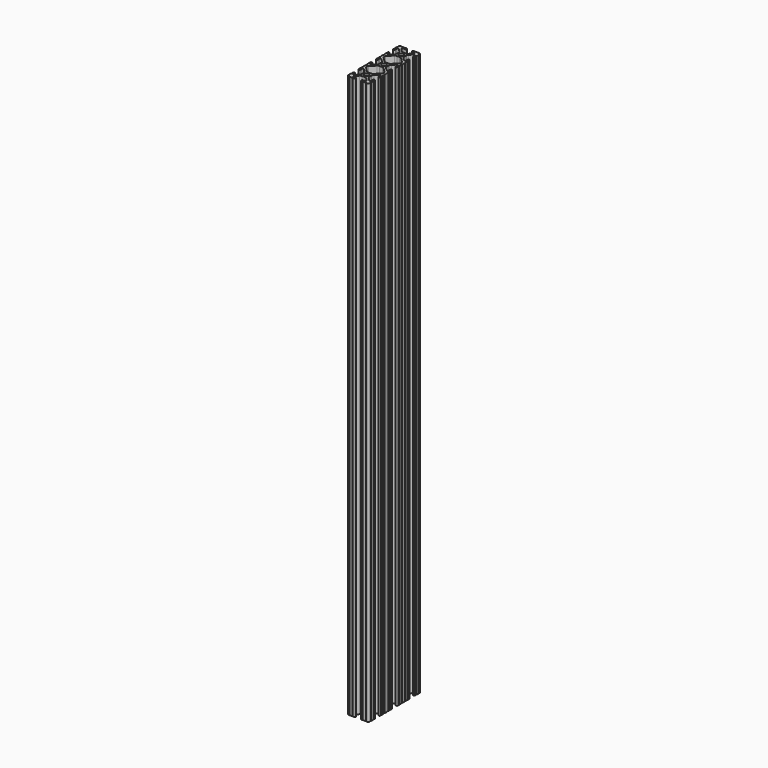
from build123d import *

# Parameters (mm, degrees)
F0_R     = 2.6035
F1_DEPTH = 656


with BuildPart() as f1:
    # F0 (on Top) → F1 (new body)
    with BuildSketch(Plane.XY):
        with BuildLine():
            Line((15.088706, -12.369562), (11.862906, -12.369562))
            ThreePointArc((11.862906, -12.369562), (11.354906, -12.877562), (10.846906, -12.369562))
            ThreePointArc((10.846906, -12.369562), (9.330628, -12.986885), (8.713306, -14.503162))
            ThreePointArc((8.713306, -14.503162), (9.221306, -15.011162), (8.713306, -15.519162))
            Line((8.713306, -15.519162), (8.713306, -18.744962))
            ThreePointArc((8.713306, -18.744962), (9.221306, -19.252962), (8.713306, -19.760962))
            Line((8.713306, -19.760962), (8.713306, -20.767255))
            ThreePointArc((8.713306, -20.767255), (9.818206, -21.872155), (10.923106, -20.767255))
            Line((10.923106, -20.767255), (10.923106, -18.594768))
            ThreePointArc((10.923106, -18.594768), (11.550299, -17.656106), (12.657526, -17.876347))
            Line((12.657526, -17.876347), (15.97487, -21.193691))
            ThreePointArc((15.97487, -21.193691), (16.663123, -22.223735), (16.904806, -23.438755))
            Line((16.904806, -23.438755), (16.904806, -26.70037))
            ThreePointArc((16.904806, -26.70037), (16.663123, -27.91539), (15.97487, -28.945434))
            Line((15.97487, -28.945434), (12.657526, -32.262777))
            ThreePointArc((12.657526, -32.262777), (11.550299, -32.483018), (10.923106, -31.544357))
            Line((10.923106, -31.544357), (10.923106, -29.37187))
            ThreePointArc((10.923106, -29.37187), (9.818206, -28.26697), (8.713306, -29.37187))
            Line((8.713306, -29.37187), (8.713306, -30.378162))
            ThreePointArc((8.713306, -30.378162), (9.221306, -30.886162), (8.713306, -31.394162))
            Line((8.713306, -31.394162), (8.713306, -34.619962))
            ThreePointArc((8.713306, -34.619962), (9.221306, -35.127962), (8.713306, -35.635962))
            Line((8.713306, -35.635962), (8.713306, -39.903162))
            ThreePointArc((8.713306, -39.903162), (9.221306, -40.411162), (8.713306, -40.919162))
            Line((8.713306, -40.919162), (8.713306, -44.144962))
            ThreePointArc((8.713306, -44.144962), (9.221306, -44.652962), (8.713306, -45.160962))
            Line((8.713306, -45.160962), (8.713306, -46.167255))
            ThreePointArc((8.713306, -46.167255), (9.818206, -47.272155), (10.923106, -46.167255))
            Line((10.923106, -46.167255), (10.923106, -43.994768))
            ThreePointArc((10.923106, -43.994768), (11.550299, -43.056106), (12.657526, -43.276347))
            Line((12.657526, -43.276347), (15.97487, -46.593691))
            ThreePointArc((15.97487, -46.593691), (16.663123, -47.623735), (16.904806, -48.838755))
            Line((16.904806, -48.838755), (16.904806, -52.10037))
            ThreePointArc((16.904806, -52.10037), (16.663123, -53.31539), (15.97487, -54.345434))
            Line((15.97487, -54.345434), (12.657526, -57.662777))
            ThreePointArc((12.657526, -57.662777), (11.550299, -57.883018), (10.923106, -56.944357))
            Line((10.923106, -56.944357), (10.923106, -54.77187))
            ThreePointArc((10.923106, -54.77187), (9.818206, -53.66697), (8.713306, -54.77187))
            Line((8.713306, -54.77187), (8.713306, -55.778162))
            ThreePointArc((8.713306, -55.778162), (9.221306, -56.286162), (8.713306, -56.794162))
            Line((8.713306, -56.794162), (8.713306, -60.019962))
            ThreePointArc((8.713306, -60.019962), (9.221306, -60.527962), (8.713306, -61.035962))
            Line((8.713306, -61.035962), (8.713306, -65.303162))
            ThreePointArc((8.713306, -65.303162), (9.221306, -65.811162), (8.713306, -66.319162))
            Line((8.713306, -66.319162), (8.713306, -69.544962))
            ThreePointArc((8.713306, -69.544962), (9.221306, -70.052962), (8.713306, -70.560962))
            Line((8.713306, -70.560962), (8.713306, -71.567255))
            ThreePointArc((8.713306, -71.567255), (9.818206, -72.672155), (10.923106, -71.567255))
            Line((10.923106, -71.567255), (10.923106, -69.394768))
            ThreePointArc((10.923106, -69.394768), (11.550299, -68.456106), (12.657526, -68.676347))
            Line((12.657526, -68.676347), (15.97487, -71.993691))
            ThreePointArc((15.97487, -71.993691), (16.663123, -73.023735), (16.904806, -74.238755))
            Line((16.904806, -74.238755), (16.904806, -77.50037))
            ThreePointArc((16.904806, -77.50037), (16.663123, -78.71539), (15.97487, -79.745434))
            Line((15.97487, -79.745434), (12.657526, -83.062777))
            ThreePointArc((12.657526, -83.062777), (11.550299, -83.283018), (10.923106, -82.344357))
            Line((10.923106, -82.344357), (10.923106, -80.17187))
            ThreePointArc((10.923106, -80.17187), (9.818206, -79.06697), (8.713306, -80.17187))
            Line((8.713306, -80.17187), (8.713306, -81.178162))
            ThreePointArc((8.713306, -81.178162), (9.221306, -81.686162), (8.713306, -82.194162))
            Line((8.713306, -82.194162), (8.713306, -85.419962))
            ThreePointArc((8.713306, -85.419962), (9.221306, -85.927962), (8.713306, -86.435962))
            ThreePointArc((8.713306, -86.435962), (9.330628, -87.95224), (10.846906, -88.569562))
            ThreePointArc((10.846906, -88.569562), (11.354906, -88.061562), (11.862906, -88.569562))
            Line((11.862906, -88.569562), (15.088706, -88.569562))
            ThreePointArc((15.088706, -88.569562), (15.596706, -88.061562), (16.104706, -88.569562))
            Line((16.104706, -88.569562), (17.110998, -88.569562))
            ThreePointArc((17.110998, -88.569562), (18.215898, -87.464662), (17.110998, -86.359762))
            Line((17.110998, -86.359762), (14.938511, -86.359762))
            ThreePointArc((14.938511, -86.359762), (13.99985, -85.732569), (14.220091, -84.625342))
            Line((14.220091, -84.625342), (17.537434, -81.307998))
            ThreePointArc((17.537434, -81.307998), (18.567479, -80.619745), (19.782498, -80.378062))
            Line((19.782498, -80.378062), (23.044113, -80.378062))
            ThreePointArc((23.044113, -80.378062), (24.259133, -80.619745), (25.289177, -81.307998))
            Line((25.289177, -81.307998), (28.606521, -84.625342))
            ThreePointArc((28.606521, -84.625342), (28.826762, -85.732569), (27.8881, -86.359762))
            Line((27.8881, -86.359762), (25.715614, -86.359762))
            ThreePointArc((25.715614, -86.359762), (24.610714, -87.464662), (25.715614, -88.569562))
            Line((25.715614, -88.569562), (26.721906, -88.569562))
            ThreePointArc((26.721906, -88.569562), (27.229906, -88.061562), (27.737906, -88.569562))
            Line((27.737906, -88.569562), (30.963706, -88.569562))
            ThreePointArc((30.963706, -88.569562), (31.471706, -88.061562), (31.979706, -88.569562))
            ThreePointArc((31.979706, -88.569562), (33.495983, -87.95224), (34.113306, -86.435962))
            ThreePointArc((34.113306, -86.435962), (33.605306, -85.927962), (34.113306, -85.419962))
            Line((34.113306, -85.419962), (34.113306, -82.194162))
            ThreePointArc((34.113306, -82.194162), (33.605306, -81.686162), (34.113306, -81.178162))
            Line((34.113306, -81.178162), (34.113306, -80.17187))
            ThreePointArc((34.113306, -80.17187), (33.008406, -79.06697), (31.903506, -80.17187))
            Line((31.903506, -80.17187), (31.903506, -82.344357))
            ThreePointArc((31.903506, -82.344357), (31.276312, -83.283018), (30.169085, -83.062777))
            Line((30.169085, -83.062777), (26.851742, -79.745434))
            ThreePointArc((26.851742, -79.745434), (26.163488, -78.71539), (25.921806, -77.50037))
            Line((25.921806, -77.50037), (25.921806, -74.238755))
            ThreePointArc((25.921806, -74.238755), (26.163488, -73.023735), (26.851742, -71.993691))
            Line((26.851742, -71.993691), (30.169085, -68.676347))
            ThreePointArc((30.169085, -68.676347), (31.276312, -68.456106), (31.903506, -69.394768))
            Line((31.903506, -69.394768), (31.903506, -71.567255))
            ThreePointArc((31.903506, -71.567255), (33.008406, -72.672155), (34.113306, -71.567255))
            Line((34.113306, -71.567255), (34.113306, -70.560962))
            ThreePointArc((34.113306, -70.560962), (33.605306, -70.052962), (34.113306, -69.544962))
            Line((34.113306, -69.544962), (34.113306, -66.319162))
            ThreePointArc((34.113306, -66.319162), (33.605306, -65.811162), (34.113306, -65.303162))
            Line((34.113306, -65.303162), (34.113306, -61.035962))
            ThreePointArc((34.113306, -61.035962), (33.605306, -60.527962), (34.113306, -60.019962))
            Line((34.113306, -60.019962), (34.113306, -56.794162))
            ThreePointArc((34.113306, -56.794162), (33.605306, -56.286162), (34.113306, -55.778162))
            Line((34.113306, -55.778162), (34.113306, -54.77187))
            ThreePointArc((34.113306, -54.77187), (33.008406, -53.66697), (31.903506, -54.77187))
            Line((31.903506, -54.77187), (31.903506, -56.944357))
            ThreePointArc((31.903506, -56.944357), (31.276312, -57.883018), (30.169085, -57.662777))
            Line((30.169085, -57.662777), (26.851742, -54.345434))
            ThreePointArc((26.851742, -54.345434), (26.163488, -53.31539), (25.921806, -52.10037))
            Line((25.921806, -52.10037), (25.921806, -48.838755))
            ThreePointArc((25.921806, -48.838755), (26.163488, -47.623735), (26.851742, -46.593691))
            Line((26.851742, -46.593691), (30.169085, -43.276347))
            ThreePointArc((30.169085, -43.276347), (31.276312, -43.056106), (31.903506, -43.994768))
            Line((31.903506, -43.994768), (31.903506, -46.167255))
            ThreePointArc((31.903506, -46.167255), (33.008406, -47.272155), (34.113306, -46.167255))
            Line((34.113306, -46.167255), (34.113306, -45.160962))
            ThreePointArc((34.113306, -45.160962), (33.605306, -44.652962), (34.113306, -44.144962))
            Line((34.113306, -44.144962), (34.113306, -40.919162))
            ThreePointArc((34.113306, -40.919162), (33.605306, -40.411162), (34.113306, -39.903162))
            Line((34.113306, -39.903162), (34.113306, -35.635962))
            ThreePointArc((34.113306, -35.635962), (33.605306, -35.127962), (34.113306, -34.619962))
            Line((34.113306, -34.619962), (34.113306, -31.394162))
            ThreePointArc((34.113306, -31.394162), (33.605306, -30.886162), (34.113306, -30.378162))
            Line((34.113306, -30.378162), (34.113306, -29.37187))
            ThreePointArc((34.113306, -29.37187), (33.008406, -28.26697), (31.903506, -29.37187))
            Line((31.903506, -29.37187), (31.903506, -31.544357))
            ThreePointArc((31.903506, -31.544357), (31.276312, -32.483018), (30.169085, -32.262777))
            Line((30.169085, -32.262777), (26.851742, -28.945434))
            ThreePointArc((26.851742, -28.945434), (26.163488, -27.91539), (25.921806, -26.70037))
            Line((25.921806, -26.70037), (25.921806, -23.438755))
            ThreePointArc((25.921806, -23.438755), (26.163488, -22.223735), (26.851742, -21.193691))
            Line((26.851742, -21.193691), (30.169085, -17.876347))
            ThreePointArc((30.169085, -17.876347), (31.276312, -17.656106), (31.903506, -18.594768))
            Line((31.903506, -18.594768), (31.903506, -20.767255))
            ThreePointArc((31.903506, -20.767255), (33.008406, -21.872155), (34.113306, -20.767255))
            Line((34.113306, -20.767255), (34.113306, -19.760962))
            ThreePointArc((34.113306, -19.760962), (33.605306, -19.252962), (34.113306, -18.744962))
            Line((34.113306, -18.744962), (34.113306, -15.519162))
            ThreePointArc((34.113306, -15.519162), (33.605306, -15.011162), (34.113306, -14.503162))
            ThreePointArc((34.113306, -14.503162), (33.495983, -12.986885), (31.979706, -12.369562))
            ThreePointArc((31.979706, -12.369562), (31.471706, -12.877562), (30.963706, -12.369562))
            Line((30.963706, -12.369562), (27.737906, -12.369562))
            ThreePointArc((27.737906, -12.369562), (27.229906, -12.877562), (26.721906, -12.369562))
            Line((26.721906, -12.369562), (25.715614, -12.369562))
            ThreePointArc((25.715614, -12.369562), (24.610714, -13.474462), (25.715614, -14.579362))
            Line((25.715614, -14.579362), (27.8881, -14.579362))
            ThreePointArc((27.8881, -14.579362), (28.826762, -15.206556), (28.606521, -16.313783))
            Line((28.606521, -16.313783), (25.289177, -19.631126))
            ThreePointArc((25.289177, -19.631126), (24.259133, -20.31938), (23.044113, -20.561062))
            Line((23.044113, -20.561062), (19.782498, -20.561062))
            ThreePointArc((19.782498, -20.561062), (18.567479, -20.31938), (17.537434, -19.631126))
            Line((17.537434, -19.631126), (14.220091, -16.313783))
            ThreePointArc((14.220091, -16.313783), (13.99985, -15.206556), (14.938511, -14.579362))
            Line((14.938511, -14.579362), (17.110998, -14.579362))
            ThreePointArc((17.110998, -14.579362), (18.215898, -13.474462), (17.110998, -12.369562))
            Line((17.110998, -12.369562), (16.104706, -12.369562))
            ThreePointArc((16.104706, -12.369562), (15.596706, -12.877562), (15.088706, -12.369562))
        make_face()
        with BuildLine():
            Line((23.044113, -71.361062), (19.782498, -71.361062))
            ThreePointArc((19.782498, -71.361062), (18.567479, -71.11938), (17.537434, -70.431126))
            Line((17.537434, -70.431126), (11.943154, -64.836846))
            ThreePointArc((11.943154, -64.836846), (11.60178, -64.325944), (11.481906, -63.723294))
            Line((11.481906, -63.723294), (11.481906, -62.61583))
            ThreePointArc((11.481906, -62.61583), (11.60178, -62.013181), (11.943154, -61.502279))
            Line((11.943154, -61.502279), (17.537434, -55.907998))
            ThreePointArc((17.537434, -55.907998), (18.567479, -55.219745), (19.782498, -54.978062))
            Line((19.782498, -54.978062), (23.044113, -54.978062))
            ThreePointArc((23.044113, -54.978062), (24.259133, -55.219745), (25.289177, -55.907998))
            Line((25.289177, -55.907998), (30.883458, -61.502279))
            ThreePointArc((30.883458, -61.502279), (31.224831, -62.013181), (31.344706, -62.61583))
            Line((31.344706, -62.61583), (31.344706, -63.723294))
            ThreePointArc((31.344706, -63.723294), (31.224831, -64.325944), (30.883458, -64.836846))
            Line((30.883458, -64.836846), (25.289177, -70.431126))
            ThreePointArc((25.289177, -70.431126), (24.259133, -71.11938), (23.044113, -71.361062))
        make_face(mode=Mode.SUBTRACT)
        with Locations((21.413306, -75.869562)):
            Circle(F0_R, mode=Mode.SUBTRACT)
        with BuildLine():
            ThreePointArc((19.782498, -45.961062), (18.567479, -45.71938), (17.537434, -45.031126))
            Line((17.537434, -45.031126), (11.943154, -39.436846))
            ThreePointArc((11.943154, -39.436846), (11.60178, -38.925944), (11.481906, -38.323294))
            Line((11.481906, -38.323294), (11.481906, -37.21583))
            ThreePointArc((11.481906, -37.21583), (11.60178, -36.613181), (11.943154, -36.102279))
            Line((11.943154, -36.102279), (17.537434, -30.507998))
            ThreePointArc((17.537434, -30.507998), (18.567479, -29.819745), (19.782498, -29.578062))
            Line((19.782498, -29.578062), (23.044113, -29.578062))
            ThreePointArc((23.044113, -29.578062), (24.259133, -29.819745), (25.289177, -30.507998))
            Line((25.289177, -30.507998), (30.883458, -36.102279))
            ThreePointArc((30.883458, -36.102279), (31.224831, -36.613181), (31.344706, -37.21583))
            Line((31.344706, -37.21583), (31.344706, -38.323294))
            ThreePointArc((31.344706, -38.323294), (31.224831, -38.925944), (30.883458, -39.436846))
            Line((30.883458, -39.436846), (25.289177, -45.031126))
            ThreePointArc((25.289177, -45.031126), (24.259133, -45.71938), (23.044113, -45.961062))
            Line((23.044113, -45.961062), (19.782498, -45.961062))
        make_face(mode=Mode.SUBTRACT)
        with Locations((21.413306, -50.469562)):
            Circle(F0_R, mode=Mode.SUBTRACT)
        with Locations((21.413306, -25.069562)):
            Circle(F0_R, mode=Mode.SUBTRACT)
    extrude(amount=F1_DEPTH)


solid = f1.part
